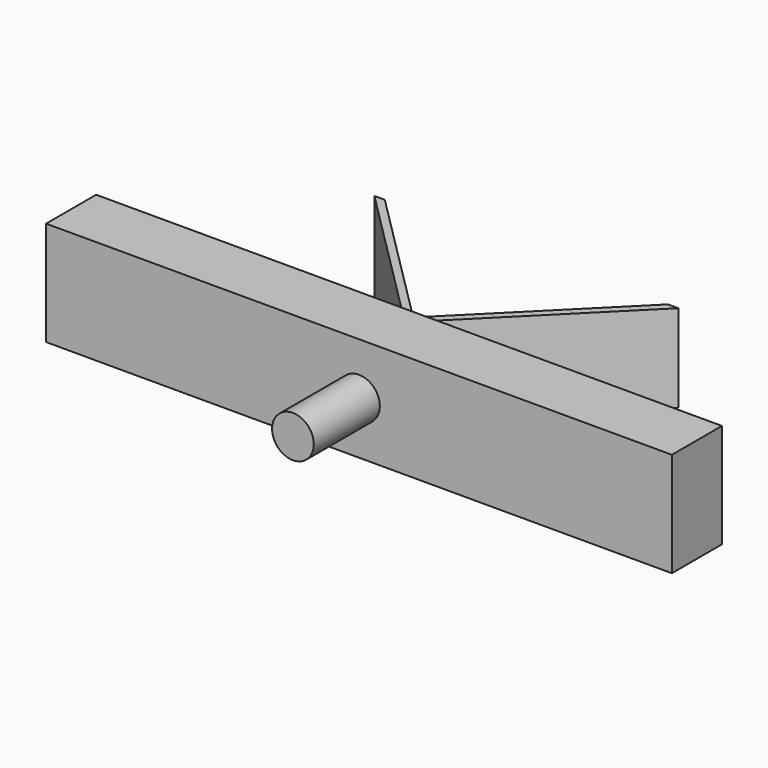
from build123d import *

# Parameters (mm, degrees)
F0_W     = 30
F0_H     = 5
F0_R     = 1
F1_DEPTH = 3
F2_DEPTH = 6.95745
F4_W     = 0.5
F4_H     = 4.2


with BuildPart() as f1:
    # F0 (on Front) → F1 (new body)
    with BuildSketch(Plane.XZ):
        Rectangle(F0_W, F0_H)
        Circle(F0_R, mode=Mode.SUBTRACT)
    extrude(amount=F1_DEPTH)

    # F0 (on Front) → F2 (join)
    with BuildSketch(Plane.XZ):
        Circle(F0_R)
    extrude(amount=F2_DEPTH)

    # F5: sweep along a path in F3
    with BuildLine(Plane.XY) as f5_path:
        Line((-7.035956, 7.03008), (0, 0))
    # F4 (on face) → F5 (sweep)
    with BuildSketch(Plane(origin=(0, 0, 0), x_dir=(-1, 0, 0), z_dir=(0, 1, 0))):
        Rectangle(F4_W, F4_H)
    sweep(path=f5_path.line)

    # F6: sweep along a path in F3
    with BuildLine(Plane.XY) as f6_path:
        Line((7.035956, 7.03008), (0, 0))
    # F4 (on face) → F6 (sweep)
    with BuildSketch(Plane(origin=(0, 0, 0), x_dir=(-1, 0, 0), z_dir=(0, 1, 0))):
        Rectangle(F4_W, F4_H)
    sweep(path=f6_path.line)


solid = f1.part
